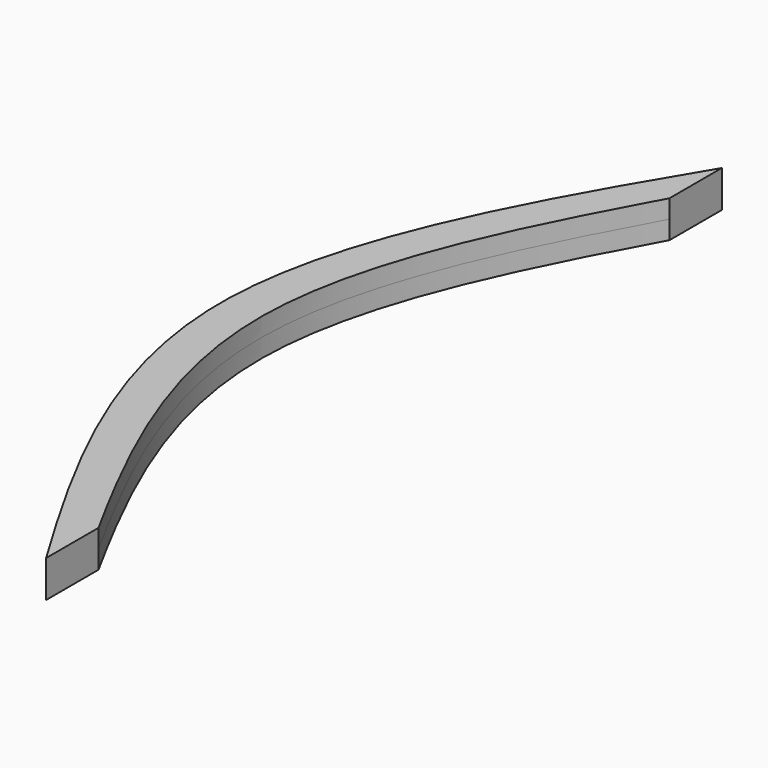
from build123d import *

# Parameters (mm, degrees)
F1_DEPTH = 1.5


with BuildPart() as f1:
    # F0 (on Top) → F1 (new body, symmetric)
    with BuildSketch(Plane.XY):
        with BuildLine():
            Line((-32.940878, 28.981896), (-32.940878, 34.3))
            add(Edge.make_bspline(
                [(-32.940878, 34.3), (-39.841725, 22.866667), (-52.558275, 0), (-39.841725, -22.866667), (-32.940878, -34.3)],
                knots=[3.45288, 3.45288, 3.45288, 3.45288, 40.46344, 77.474, 77.474, 77.474, 77.474], degree=3))
            Line((-32.940878, -34.3), (-32.940878, -28.981896))
            add(Edge.make_bspline(
                [(-32.940878, 28.981896), (-38.228685, 19.321264), (-47.771315, 0), (-38.228685, -19.321264), (-32.940878, -28.981896)],
                knots=[3.750258, 3.750258, 3.750258, 3.750258, 34.644624, 65.538991, 65.538991, 65.538991, 65.538991], degree=3))
        make_face()
    extrude(amount=F1_DEPTH, both=True)


solid = f1.part
